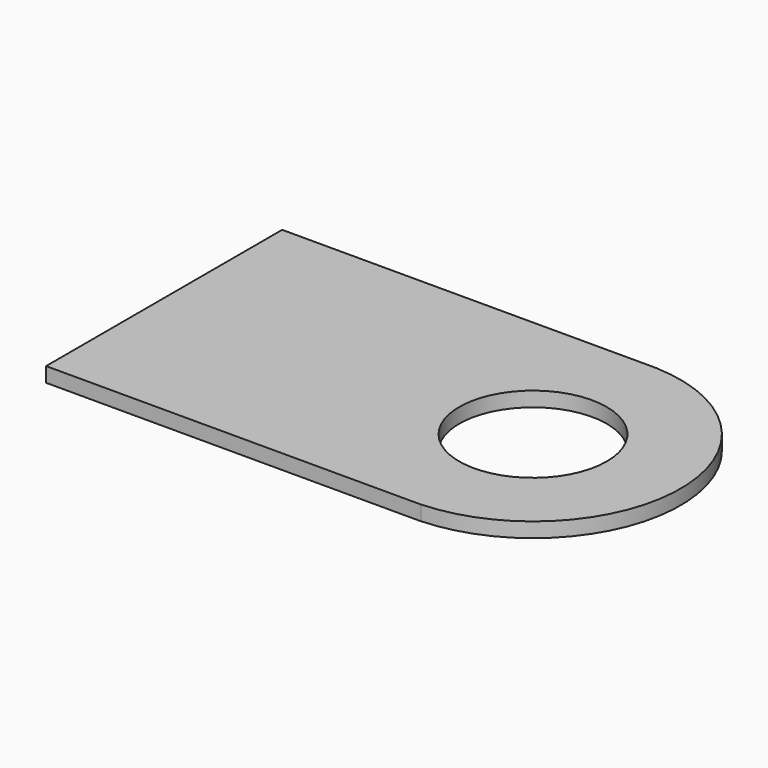
from build123d import *

# Parameters (mm, degrees)
CYLINDER020_R     = 0.5
CYLINDER020_DEPTH = 0.1
BOX009_W          = 2.54
BOX009_H          = 2
BOX009_DEPTH      = 0.1
CYLINDER019_R     = 0.5
CYLINDER019_DEPTH = 0.1
CYLINDER018_R     = 1
CYLINDER018_DEPTH = 0.1


with BuildPart() as cylinder020:
    # Cylinder020 → Cylinder020 (new body)
    with BuildSketch(Plane.XY.offset(1)):
        Circle(CYLINDER020_R)
    extrude(amount=CYLINDER020_DEPTH)


with BuildPart() as cut014:
    # Box009 → Box009 (new body)
    with BuildSketch(Plane(origin=(-2.5, -1, 1), x_dir=(1, 0, 0), z_dir=(0, 0, 1))):
        with Locations((1.27, 1)):
            Rectangle(BOX009_W, BOX009_H)
    extrude(amount=BOX009_DEPTH)

    # Cut014: cut Cylinder020
    add(cylinder020.part, mode=Mode.SUBTRACT)


with BuildPart() as cylinder019:
    # Cylinder019 → Cylinder019 (new body)
    with BuildSketch(Plane.XY.offset(1)):
        Circle(CYLINDER019_R)
    extrude(amount=CYLINDER019_DEPTH)


with BuildPart() as fusion006:
    # Cylinder018 → Cylinder018 (new body)
    with BuildSketch(Plane.XY.offset(1)):
        Circle(CYLINDER018_R)
    extrude(amount=CYLINDER018_DEPTH)

    # Cut013: cut Cylinder019
    add(cylinder019.part, mode=Mode.SUBTRACT)

    # Fusion006: union Cut014
    add(cut014.part)


with BuildPart() as fusion006_1:
    # Fusion006 placement: moved
    add(fusion006.part.moved(Location((0, -15.24, 5.5))))


solid = fusion006_1.part
